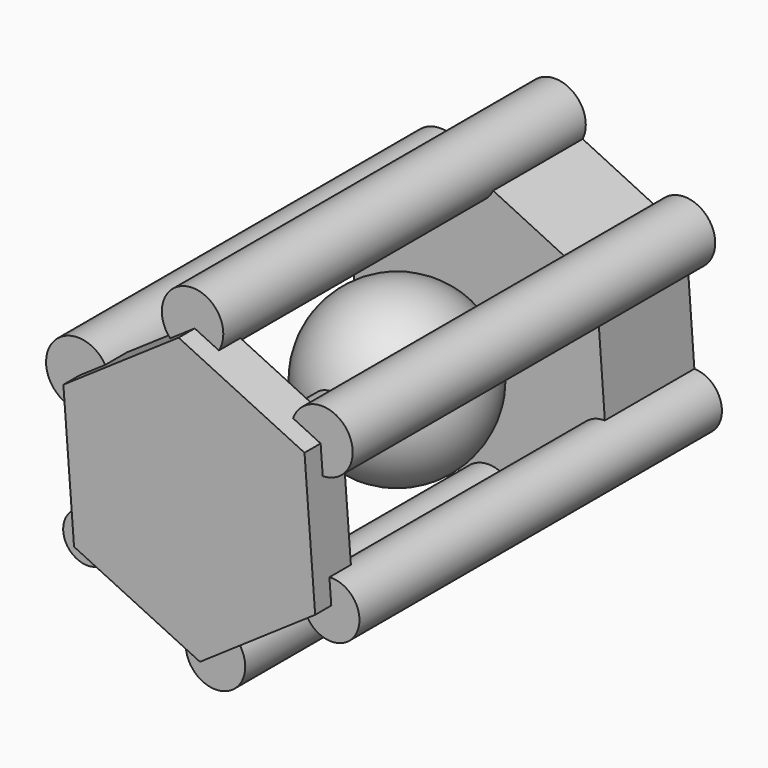
from build123d import *

# Parameters (mm, degrees)
F1_DEPTH = 25.4
F2_R     = 7.2533857786
F2_R_2   = 5.5158705089
F2_R_3   = 6.7589997369
F2_R_4   = 6.3667286832
F2_R_5   = 6.9837940253
F2_R_6   = 6.9770855285
F3_DEPTH = 102.87
F4_R     = 5.2099395751
F5_DEPTH = 102.108
F9_START = 96.774
F9_DEPTH = 10.668


with BuildPart() as f1:
    # F0 (on Front) → F1 (new body)
    with BuildSketch(Plane.XZ):
        Polygon((-29.1519459024, 14.0827481248), (-26.7719905823, -18.2049516588), (2.3799553201, -32.2876997836), (29.1519459024, -14.0827481248), (26.7719905823, 18.2049516588), (-2.3799553201, 32.2876997836), align=None)
    extrude(amount=F1_DEPTH)

    # F2 (on Front) → F3 (join)
    with BuildSketch(Plane.XZ):
        with Locations((-28.9137475193, 13.9214349911)):
            Circle(F2_R)
        with Locations((-26.7719905823, -18.2049516588)):
            Circle(F2_R_2)
        with Locations((2.2947418038, -32.2793722153)):
            Circle(F2_R_3)
        with Locations((28.6077819765, -14.5333660766)):
            Circle(F2_R_4)
        with Locations((26.4660213143, 18.5109190643)):
            Circle(F2_R_5)
        with Locations((-2.9066735879, 32.5853340328)):
            Circle(F2_R_6)
    extrude(amount=F3_DEPTH)

    # F4 (on Front) → F5 (join)
    with BuildSketch(Plane.XZ):
        Circle(F4_R)
    extrude(amount=F5_DEPTH)

    # F6 (on Top) → F7 (revolve)
    with BuildSketch(Plane.XY):
        with BuildLine():
            Line((0, -67.7234342558), (0, -29.2267018693))
            ThreePointArc((0, -29.2267018693), (-19.2483661933, -48.4750680625), (0, -67.7234342558))
        make_face()
    revolve(axis=Axis((0, -48.4750680625, 0), (0, -1, 0)))

    # F8 (on Front) → F9 (join)
    with BuildSketch(Plane.XZ.offset(F9_START)):
        Polygon((-28.5810061773, 13.7057788732), (-26.1600557715, -17.8989879787), (2.4209504058, -31.6047668519), (28.5810061773, -13.7057788732), (26.1600557715, 17.8989879787), (-2.4209504058, 31.6047668519), align=None)
    extrude(amount=F9_DEPTH)


solid = f1.part
